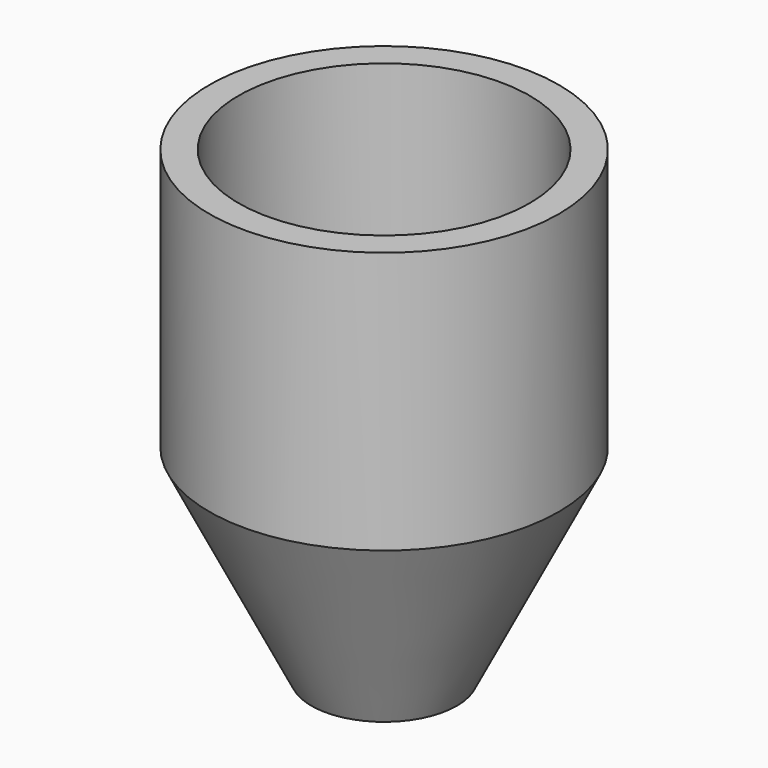
from build123d import *

# Parameters (mm, degrees)
F2_R     = 7.9375
F1_R     = 19.05
F4_R     = 4.2545
F5_DEPTH = 22.225
F6_DEPTH = 28.575
F7_R     = 15.870198
F8_DEPTH = 28.575


with BuildPart() as f3:
    # F2 (on Top) → F3 section 0
    with BuildSketch(Plane.XY):
        Circle(F2_R)
    # F1 (on offset) → F3 section 1
    with BuildSketch(Plane.XY.offset(22.225)):
        Circle(F1_R)
    loft()

    # F4 (on offset) → F5 (cut)
    with BuildSketch(Plane.XY.offset(22.225)):
        Circle(F4_R)
    extrude(amount=-F5_DEPTH, mode=Mode.SUBTRACT)

    # F1 (on offset) → F6 (join)
    with BuildSketch(Plane.XY.offset(22.225)):
        Circle(F1_R)
    extrude(amount=F6_DEPTH)

    # F7 (on face) → F8 (cut)
    with BuildSketch(Plane.XY.offset(50.8)):
        Circle(F7_R)
    extrude(amount=-F8_DEPTH, mode=Mode.SUBTRACT)


solid = f3.part
